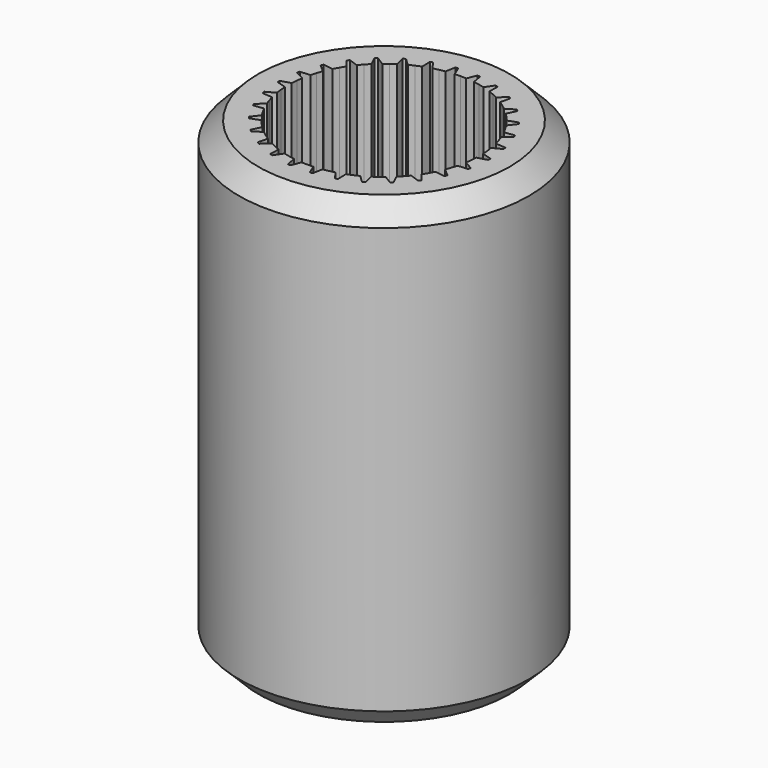
from build123d import *

# Parameters (mm, degrees)
F0_R     = 7.5
F1_DEPTH = 24
F2_SIZE  = 1


with BuildPart() as f1:
    # F0 (on Top) → F1 (new body)
    with BuildSketch(Plane.XY):
        Circle(F0_R)
        with BuildLine():
            ThreePointArc((5.449550226, 0.0700166693), (5.4498875553, 0.0350090569), (5.45, 0))
            ThreePointArc((5.45, 0), (5.4498875553, -0.0350090569), (5.449550226, -0.0700166693))
            ThreePointArc((5.449550226, -0.0700166693), (5.4201443298, -0.5696801248), (5.3450217628, -1.0645385646))
            ThreePointArc((5.3450217628, -1.0645385646), (5.330904424, -1.133118715), (5.3159071946, -1.2015118387))
            ThreePointArc((5.3159071946, -1.2015118387), (5.1832580138, -1.6841426193), (5.0068902002, -2.152568355))
            ThreePointArc((5.0068902002, -2.152568355), (4.9788227442, -2.2167147048), (4.9499335102, -2.2804951754))
            ThreePointArc((4.9499335102, -2.2804951754), (4.7198384506, -2.725), (4.4499335102, -3.1465205792))
            ThreePointArc((4.4499335102, -3.1465205792), (4.4091426193, -3.203429625), (4.3676239789, -3.2598099298))
            ThreePointArc((4.3676239789, -3.2598099298), (4.0501392989, -3.6467618047), (3.6984933726, -4.0029547553))
            ThreePointArc((3.6984933726, -4.0029547553), (3.6467618047, -4.0501392989), (3.5944283217, -4.096655348))
            ThreePointArc((3.5944283217, -4.096655348), (3.203429625, -4.4091426193), (2.7854113273, -4.6844406003))
            ThreePointArc((2.7854113273, -4.6844406003), (2.725, -4.7198384506), (2.6641388987, -4.7544572696))
            ThreePointArc((2.6641388987, -4.7544572696), (2.2167147048, -4.9788227442), (1.7505934411, -5.1611939127))
            ThreePointArc((1.7505934411, -5.1611939127), (1.6841426193, -5.1832580138), (1.617413822, -5.204466594))
            ThreePointArc((1.617413822, -5.204466594), (1.133118715, -5.330904424), (0.6392662213, -5.4123782849))
            ThreePointArc((0.6392662213, -5.4123782849), (0.5696801248, -5.4201443298), (0.5, -5.4270157545))
            ThreePointArc((0.5, -5.4270157545), (0, -5.45), (-0.5, -5.4270157545))
            ThreePointArc((-0.5, -5.4270157545), (-0.5696801248, -5.4201443298), (-0.6392662213, -5.4123782849))
            ThreePointArc((-0.6392662213, -5.4123782849), (-1.133118715, -5.330904424), (-1.617413822, -5.204466594))
            ThreePointArc((-1.617413822, -5.204466594), (-1.6841426193, -5.1832580138), (-1.7505934411, -5.1611939127))
            ThreePointArc((-1.7505934411, -5.1611939127), (-2.2167147048, -4.9788227442), (-2.6641388987, -4.7544572696))
            ThreePointArc((-2.6641388987, -4.7544572696), (-2.725, -4.7198384506), (-2.7854113273, -4.6844406003))
            ThreePointArc((-2.7854113273, -4.6844406003), (-3.203429625, -4.4091426193), (-3.5944283217, -4.096655348))
            ThreePointArc((-3.5944283217, -4.096655348), (-3.6467618047, -4.0501392989), (-3.6984933726, -4.0029547553))
            ThreePointArc((-3.6984933726, -4.0029547553), (-4.0501392989, -3.6467618047), (-4.3676239789, -3.2598099298))
            ThreePointArc((-4.3676239789, -3.2598099298), (-4.4091426193, -3.203429625), (-4.4499335102, -3.1465205792))
            ThreePointArc((-4.4499335102, -3.1465205792), (-4.7198384506, -2.725), (-4.9499335102, -2.2804951754))
            ThreePointArc((-4.9499335102, -2.2804951754), (-4.9788227442, -2.2167147048), (-5.0068902002, -2.152568355))
            ThreePointArc((-5.0068902002, -2.152568355), (-5.1832580138, -1.6841426193), (-5.3159071946, -1.2015118387))
            ThreePointArc((-5.3159071946, -1.2015118387), (-5.330904424, -1.133118715), (-5.3450217628, -1.0645385646))
            ThreePointArc((-5.3450217628, -1.0645385646), (-5.4201443298, -0.5696801248), (-5.449550226, -0.0700166693))
            ThreePointArc((-5.449550226, -0.0700166693), (-5.45, 0), (-5.449550226, 0.0700166693))
            ThreePointArc((-5.449550226, 0.0700166693), (-5.4201443298, 0.5696801248), (-5.3450217628, 1.0645385646))
            ThreePointArc((-5.3450217628, 1.0645385646), (-5.330904424, 1.133118715), (-5.3159071946, 1.2015118387))
            ThreePointArc((-5.3159071946, 1.2015118387), (-5.1832580138, 1.6841426193), (-5.0068902002, 2.152568355))
            ThreePointArc((-5.0068902002, 2.152568355), (-4.9788227442, 2.2167147048), (-4.9499335102, 2.2804951754))
            ThreePointArc((-4.9499335102, 2.2804951754), (-4.7198384506, 2.725), (-4.4499335102, 3.1465205792))
            ThreePointArc((-4.4499335102, 3.1465205792), (-4.4091426193, 3.203429625), (-4.3676239789, 3.2598099298))
            ThreePointArc((-4.3676239789, 3.2598099298), (-4.0501392989, 3.6467618047), (-3.6984933726, 4.0029547553))
            ThreePointArc((-3.6984933726, 4.0029547553), (-3.6467618047, 4.0501392989), (-3.5944283217, 4.096655348))
            ThreePointArc((-3.5944283217, 4.096655348), (-3.203429625, 4.4091426193), (-2.7854113273, 4.6844406003))
            ThreePointArc((-2.7854113273, 4.6844406003), (-2.725, 4.7198384506), (-2.6641388987, 4.7544572696))
            ThreePointArc((-2.6641388987, 4.7544572696), (-2.2167147048, 4.9788227442), (-1.7505934411, 5.1611939127))
            ThreePointArc((-1.7505934411, 5.1611939127), (-1.6841426193, 5.1832580138), (-1.617413822, 5.204466594))
            ThreePointArc((-1.617413822, 5.204466594), (-1.133118715, 5.330904424), (-0.6392662213, 5.4123782849))
            ThreePointArc((-0.6392662213, 5.4123782849), (-0.5696801248, 5.4201443298), (-0.5, 5.4270157545))
            ThreePointArc((-0.5, 5.4270157545), (0, 5.45), (0.5, 5.4270157545))
            ThreePointArc((0.5, 5.4270157545), (0.5696801248, 5.4201443298), (0.6392662213, 5.4123782849))
            ThreePointArc((0.6392662213, 5.4123782849), (1.133118715, 5.330904424), (1.617413822, 5.204466594))
            ThreePointArc((1.617413822, 5.204466594), (1.6841426193, 5.1832580138), (1.7505934411, 5.1611939127))
            ThreePointArc((1.7505934411, 5.1611939127), (2.2167147048, 4.9788227442), (2.6641388987, 4.7544572696))
            ThreePointArc((2.6641388987, 4.7544572696), (2.725, 4.7198384506), (2.7854113273, 4.6844406003))
            ThreePointArc((2.7854113273, 4.6844406003), (3.203429625, 4.4091426193), (3.5944283217, 4.096655348))
            ThreePointArc((3.5944283217, 4.096655348), (3.6467618047, 4.0501392989), (3.6984933726, 4.0029547553))
            ThreePointArc((3.6984933726, 4.0029547553), (4.0501392989, 3.6467618047), (4.3676239789, 3.2598099298))
            ThreePointArc((4.3676239789, 3.2598099298), (4.4091426193, 3.203429625), (4.4499335102, 3.1465205792))
            ThreePointArc((4.4499335102, 3.1465205792), (4.7198384506, 2.725), (4.9499335102, 2.2804951754))
            ThreePointArc((4.9499335102, 2.2804951754), (4.9788227442, 2.2167147048), (5.0068902002, 2.152568355))
            ThreePointArc((5.0068902002, 2.152568355), (5.1832580138, 1.6841426193), (5.3159071946, 1.2015118387))
            ThreePointArc((5.3159071946, 1.2015118387), (5.330904424, 1.133118715), (5.3450217628, 1.0645385646))
            ThreePointArc((5.3450217628, 1.0645385646), (5.4201443298, 0.5696801248), (5.449550226, 0.0700166693))
        make_face(mode=Mode.SUBTRACT)
        with BuildLine():
            Line((-3.471065627, 3.5290513475), (-3.6984933726, 4.0029547553))
            ThreePointArc((-3.6984933726, 4.0029547553), (-4.0501392989, 3.6467618047), (-4.3676239789, 3.2598099298))
            Line((-4.3676239789, 3.2598099298), (-3.8725439908, 3.0831644522))
            ThreePointArc((-3.8725439908, 3.0831644522), (-3.7772917267, 3.1991510141), (-3.6785668861, 3.3121965015))
            ThreePointArc((-3.6785668861, 3.3121965015), (-3.5764602296, 3.4221969882), (-3.471065627, 3.5290513475))
        make_face()
        with BuildLine():
            Line((-4.1289455477, 2.7302579849), (-4.4499335102, 3.1465205792))
            ThreePointArc((-4.4499335102, 3.1465205792), (-4.7198384506, 2.725), (-4.9499335102, 2.2804951754))
            Line((-4.9499335102, 2.2804951754), (-4.4289455477, 2.2106427427))
            ThreePointArc((-4.4289455477, 2.2106427427), (-4.3598897363, 2.3438987792), (-4.2868257487, 2.475))
            ThreePointArc((-4.2868257487, 2.475), (-4.2098207549, 2.6038258797), (-4.1289455477, 2.7302579849))
        make_face()
        with BuildLine():
            Line((-2.6614834824, 4.1736082318), (-2.7854113273, 4.6844406003))
            ThreePointArc((-2.7854113273, 4.6844406003), (-3.203429625, 4.4091426193), (-3.5944283217, 4.096655348))
            Line((-3.5944283217, 4.096655348), (-3.146893679, 3.8209370805))
            ThreePointArc((-3.146893679, 3.8209370805), (-3.0296079432, 3.9145849985), (-2.9095369988, 4.0046341222))
            ThreePointArc((-2.9095369988, 4.0046341222), (-2.7867912306, 4.0910016667), (-2.6614834824, 4.1736082318))
        make_face()
        with BuildLine():
            Line((-1.7355817384, 4.6357584093), (-1.7505934411, 5.1611939127))
            ThreePointArc((-1.7505934411, 5.1611939127), (-2.2167147048, 4.9788227442), (-2.6641388987, 4.7544572696))
            Line((-2.6641388987, 4.7544572696), (-2.283709013, 4.3917164234))
            ThreePointArc((-2.283709013, 4.3917164234), (-2.149515755, 4.4589328341), (-2.0133463832, 4.5220500153))
            ThreePointArc((-2.0133463832, 4.5220500153), (-1.8753260823, 4.5810099416), (-1.7355817384, 4.6357584093))
        make_face()
        with BuildLine():
            Line((-0.7338267442, 4.8953036994), (-0.6392662213, 5.4123782849))
            ThreePointArc((-0.6392662213, 5.4123782849), (-1.133118715, 5.330904424), (-1.617413822, 5.204466594))
            Line((-1.617413822, 5.204466594), (-1.3207153047, 4.7705566849))
            ThreePointArc((-1.3207153047, 4.7705566849), (-1.1754794137, 4.8084039086), (-1.0291628695, 4.8418306236))
            ThreePointArc((-1.0291628695, 4.8418306236), (-0.8819001854, 4.8708060999), (-0.7338267442, 4.8953036994))
        make_face()
        with BuildLine():
            Line((0.3, 4.9409007276), (0.5, 5.4270157545))
            ThreePointArc((0.5, 5.4270157545), (0, 5.45), (-0.5, 5.4270157545))
            Line((-0.5, 5.4270157545), (-0.3, 4.9409007276))
            ThreePointArc((-0.3, 4.9409007276), (-0.1500689814, 4.947724659), (0, 4.95))
            ThreePointArc((0, 4.95), (0.1500689814, 4.947724659), (0.3, 4.9409007276))
        make_face()
        with BuildLine():
            Line((1.3207153047, 4.7705566849), (1.617413822, 5.204466594))
            ThreePointArc((1.617413822, 5.204466594), (1.133118715, 5.330904424), (0.6392662213, 5.4123782849))
            Line((0.6392662213, 5.4123782849), (0.7338267442, 4.8953036994))
            ThreePointArc((0.7338267442, 4.8953036994), (0.8819001854, 4.8708060999), (1.0291628695, 4.8418306236))
            ThreePointArc((1.0291628695, 4.8418306236), (1.1754794137, 4.8084039086), (1.3207153047, 4.7705566849))
        make_face()
        with BuildLine():
            Line((2.283709013, 4.3917164234), (2.6641388987, 4.7544572696))
            ThreePointArc((2.6641388987, 4.7544572696), (2.2167147048, 4.9788227442), (1.7505934411, 5.1611939127))
            Line((1.7505934411, 5.1611939127), (1.7355817384, 4.6357584093))
            ThreePointArc((1.7355817384, 4.6357584093), (1.8753260823, 4.5810099416), (2.0133463832, 4.5220500153))
            ThreePointArc((2.0133463832, 4.5220500153), (2.149515755, 4.4589328341), (2.283709013, 4.3917164234))
        make_face()
        with BuildLine():
            Line((3.146893679, 3.8209370805), (3.5944283217, 4.096655348))
            ThreePointArc((3.5944283217, 4.096655348), (3.203429625, 4.4091426193), (2.7854113273, 4.6844406003))
            Line((2.7854113273, 4.6844406003), (2.6614834824, 4.1736082318))
            ThreePointArc((2.6614834824, 4.1736082318), (2.7867912306, 4.0910016667), (2.9095369988, 4.0046341222))
            ThreePointArc((2.9095369988, 4.0046341222), (3.0296079432, 3.9145849985), (3.146893679, 3.8209370805))
        make_face()
        with BuildLine():
            Line((3.8725439908, 3.0831644522), (4.3676239789, 3.2598099298))
            ThreePointArc((4.3676239789, 3.2598099298), (4.0501392989, 3.6467618047), (3.6984933726, 4.0029547553))
            Line((3.6984933726, 4.0029547553), (3.471065627, 3.5290513475))
            ThreePointArc((3.471065627, 3.5290513475), (3.5764602296, 3.4221969882), (3.6785668861, 3.3121965015))
            ThreePointArc((3.6785668861, 3.3121965015), (3.7772917267, 3.1991510141), (3.8725439908, 3.0831644522))
        make_face()
        with BuildLine():
            Line((4.4289455477, 2.2106427427), (4.9499335102, 2.2804951754))
            ThreePointArc((4.9499335102, 2.2804951754), (4.7198384506, 2.725), (4.4499335102, 3.1465205792))
            Line((4.4499335102, 3.1465205792), (4.1289455477, 2.7302579849))
            ThreePointArc((4.1289455477, 2.7302579849), (4.2098207549, 2.6038258797), (4.2868257487, 2.475))
            ThreePointArc((4.2868257487, 2.475), (4.3598897363, 2.3438987792), (4.4289455477, 2.2106427427))
        make_face()
        with BuildLine():
            Line((4.7917809317, 1.2415053375), (5.3159071946, 1.2015118387))
            ThreePointArc((5.3159071946, 1.2015118387), (5.1832580138, 1.6841426193), (5.0068902002, 2.152568355))
            Line((5.0068902002, 2.152568355), (4.606370735, 1.8121392472))
            ThreePointArc((4.606370735, 1.8121392472), (4.6591919121, 1.6716550858), (4.7077297557, 1.5296341222))
            ThreePointArc((4.7077297557, 1.5296341222), (4.7519396433, 1.3862069204), (4.7917809317, 1.2415053375))
        make_face()
        with BuildLine():
            Line((4.9451924954, 0.2181081916), (5.449550226, 0.0700166693))
            ThreePointArc((5.449550226, 0.0700166693), (5.4201443298, 0.5696801248), (5.3450217628, 1.0645385646))
            Line((5.3450217628, 1.0645385646), (4.8824754175, 0.8148213288))
            ThreePointArc((4.8824754175, 0.8148213288), (4.9049340256, 0.6664249431), (4.9228833821, 0.5174158932))
            ThreePointArc((4.9228833821, 0.5174158932), (4.9363069856, 0.3679311674), (4.9451924954, 0.2181081916))
        make_face()
        with BuildLine():
            Line((-4.606370735, 1.8121392472), (-5.0068902002, 2.152568355))
            ThreePointArc((-5.0068902002, 2.152568355), (-5.1832580138, 1.6841426193), (-5.3159071946, 1.2015118387))
            Line((-5.3159071946, 1.2015118387), (-4.7917809317, 1.2415053375))
            ThreePointArc((-4.7917809317, 1.2415053375), (-4.7519396433, 1.3862069204), (-4.7077297557, 1.5296341222))
            ThreePointArc((-4.7077297557, 1.5296341222), (-4.6591919121, 1.6716550858), (-4.606370735, 1.8121392472))
        make_face()
        with BuildLine():
            Line((-4.8824754175, 0.8148213288), (-5.3450217628, 1.0645385646))
            ThreePointArc((-5.3450217628, 1.0645385646), (-5.4201443298, 0.5696801248), (-5.449550226, 0.0700166693))
            Line((-5.449550226, 0.0700166693), (-4.9451924954, 0.2181081916))
            ThreePointArc((-4.9451924954, 0.2181081916), (-4.9363069856, 0.3679311674), (-4.9228833821, 0.5174158932))
            ThreePointArc((-4.9228833821, 0.5174158932), (-4.9049340256, 0.6664249431), (-4.8824754175, 0.8148213288))
        make_face()
        with BuildLine():
            ThreePointArc((-5.449550226, -0.0700166693), (-5.4201443298, -0.5696801248), (-5.3450217628, -1.0645385646))
            Line((-5.3450217628, -1.0645385646), (-4.8824754175, -0.8148213288))
            ThreePointArc((-4.8824754175, -0.8148213288), (-4.9049340256, -0.6664249431), (-4.9228833821, -0.5174158932))
            ThreePointArc((-4.9228833821, -0.5174158932), (-4.9363069856, -0.3679311674), (-4.9451924954, -0.2181081916))
            Line((-4.9451924954, -0.2181081916), (-5.449550226, -0.0700166693))
        make_face()
        with BuildLine():
            ThreePointArc((-5.3159071946, -1.2015118387), (-5.1832580138, -1.6841426193), (-5.0068902002, -2.152568355))
            Line((-5.0068902002, -2.152568355), (-4.606370735, -1.8121392472))
            ThreePointArc((-4.606370735, -1.8121392472), (-4.6591919121, -1.6716550858), (-4.7077297557, -1.5296341222))
            ThreePointArc((-4.7077297557, -1.5296341222), (-4.7519396433, -1.3862069204), (-4.7917809317, -1.2415053375))
            Line((-4.7917809317, -1.2415053375), (-5.3159071946, -1.2015118387))
        make_face()
        with BuildLine():
            ThreePointArc((-4.9499335102, -2.2804951754), (-4.7198384506, -2.725), (-4.4499335102, -3.1465205792))
            Line((-4.4499335102, -3.1465205792), (-4.1289455477, -2.7302579849))
            ThreePointArc((-4.1289455477, -2.7302579849), (-4.2098207549, -2.6038258797), (-4.2868257487, -2.475))
            ThreePointArc((-4.2868257487, -2.475), (-4.3598897363, -2.3438987792), (-4.4289455477, -2.2106427427))
            Line((-4.4289455477, -2.2106427427), (-4.9499335102, -2.2804951754))
        make_face()
        with BuildLine():
            ThreePointArc((-4.3676239789, -3.2598099298), (-4.0501392989, -3.6467618047), (-3.6984933726, -4.0029547553))
            Line((-3.6984933726, -4.0029547553), (-3.471065627, -3.5290513475))
            ThreePointArc((-3.471065627, -3.5290513475), (-3.5764602296, -3.4221969882), (-3.6785668861, -3.3121965015))
            ThreePointArc((-3.6785668861, -3.3121965015), (-3.7772917267, -3.1991510141), (-3.8725439908, -3.0831644522))
            Line((-3.8725439908, -3.0831644522), (-4.3676239789, -3.2598099298))
        make_face()
        with BuildLine():
            ThreePointArc((-3.5944283217, -4.096655348), (-3.203429625, -4.4091426193), (-2.7854113273, -4.6844406003))
            Line((-2.7854113273, -4.6844406003), (-2.6614834824, -4.1736082318))
            ThreePointArc((-2.6614834824, -4.1736082318), (-2.7867912306, -4.0910016667), (-2.9095369988, -4.0046341222))
            ThreePointArc((-2.9095369988, -4.0046341222), (-3.0296079432, -3.9145849985), (-3.146893679, -3.8209370805))
            Line((-3.146893679, -3.8209370805), (-3.5944283217, -4.096655348))
        make_face()
        with BuildLine():
            ThreePointArc((-2.6641388987, -4.7544572696), (-2.2167147048, -4.9788227442), (-1.7505934411, -5.1611939127))
            Line((-1.7505934411, -5.1611939127), (-1.7355817384, -4.6357584093))
            ThreePointArc((-1.7355817384, -4.6357584093), (-1.8753260823, -4.5810099416), (-2.0133463832, -4.5220500153))
            ThreePointArc((-2.0133463832, -4.5220500153), (-2.149515755, -4.4589328341), (-2.283709013, -4.3917164234))
            Line((-2.283709013, -4.3917164234), (-2.6641388987, -4.7544572696))
        make_face()
        with BuildLine():
            ThreePointArc((-1.617413822, -5.204466594), (-1.133118715, -5.330904424), (-0.6392662213, -5.4123782849))
            Line((-0.6392662213, -5.4123782849), (-0.7338267442, -4.8953036994))
            ThreePointArc((-0.7338267442, -4.8953036994), (-0.8819001854, -4.8708060999), (-1.0291628695, -4.8418306236))
            ThreePointArc((-1.0291628695, -4.8418306236), (-1.1754794137, -4.8084039086), (-1.3207153047, -4.7705566849))
            Line((-1.3207153047, -4.7705566849), (-1.617413822, -5.204466594))
        make_face()
        with BuildLine():
            ThreePointArc((-0.5, -5.4270157545), (0, -5.45), (0.5, -5.4270157545))
            Line((0.5, -5.4270157545), (0.3, -4.9409007276))
            ThreePointArc((0.3, -4.9409007276), (0.1500689814, -4.947724659), (0, -4.95))
            ThreePointArc((0, -4.95), (-0.1500689814, -4.947724659), (-0.3, -4.9409007276))
            Line((-0.3, -4.9409007276), (-0.5, -5.4270157545))
        make_face()
        with BuildLine():
            ThreePointArc((0.6392662213, -5.4123782849), (1.133118715, -5.330904424), (1.617413822, -5.204466594))
            Line((1.617413822, -5.204466594), (1.3207153047, -4.7705566849))
            ThreePointArc((1.3207153047, -4.7705566849), (1.1754794137, -4.8084039086), (1.0291628695, -4.8418306236))
            ThreePointArc((1.0291628695, -4.8418306236), (0.8819001854, -4.8708060999), (0.7338267442, -4.8953036994))
            Line((0.7338267442, -4.8953036994), (0.6392662213, -5.4123782849))
        make_face()
        with BuildLine():
            ThreePointArc((1.7505934411, -5.1611939127), (2.2167147048, -4.9788227442), (2.6641388987, -4.7544572696))
            Line((2.6641388987, -4.7544572696), (2.283709013, -4.3917164234))
            ThreePointArc((2.283709013, -4.3917164234), (2.149515755, -4.4589328341), (2.0133463832, -4.5220500153))
            ThreePointArc((2.0133463832, -4.5220500153), (1.8753260823, -4.5810099416), (1.7355817384, -4.6357584093))
            Line((1.7355817384, -4.6357584093), (1.7505934411, -5.1611939127))
        make_face()
        with BuildLine():
            ThreePointArc((2.7854113273, -4.6844406003), (3.203429625, -4.4091426193), (3.5944283217, -4.096655348))
            Line((3.5944283217, -4.096655348), (3.146893679, -3.8209370805))
            ThreePointArc((3.146893679, -3.8209370805), (3.0296079432, -3.9145849985), (2.9095369988, -4.0046341222))
            ThreePointArc((2.9095369988, -4.0046341222), (2.7867912306, -4.0910016667), (2.6614834824, -4.1736082318))
            Line((2.6614834824, -4.1736082318), (2.7854113273, -4.6844406003))
        make_face()
        with BuildLine():
            ThreePointArc((3.6984933726, -4.0029547553), (4.0501392989, -3.6467618047), (4.3676239789, -3.2598099298))
            Line((4.3676239789, -3.2598099298), (3.8725439908, -3.0831644522))
            ThreePointArc((3.8725439908, -3.0831644522), (3.7772917267, -3.1991510141), (3.6785668861, -3.3121965015))
            ThreePointArc((3.6785668861, -3.3121965015), (3.5764602296, -3.4221969882), (3.471065627, -3.5290513475))
            Line((3.471065627, -3.5290513475), (3.6984933726, -4.0029547553))
        make_face()
        with BuildLine():
            ThreePointArc((4.4499335102, -3.1465205792), (4.7198384506, -2.725), (4.9499335102, -2.2804951754))
            Line((4.9499335102, -2.2804951754), (4.4289455477, -2.2106427427))
            ThreePointArc((4.4289455477, -2.2106427427), (4.3598897363, -2.3438987792), (4.2868257487, -2.475))
            ThreePointArc((4.2868257487, -2.475), (4.2098207549, -2.6038258797), (4.1289455477, -2.7302579849))
            Line((4.1289455477, -2.7302579849), (4.4499335102, -3.1465205792))
        make_face()
        with BuildLine():
            ThreePointArc((5.0068902002, -2.152568355), (5.1832580138, -1.6841426193), (5.3159071946, -1.2015118387))
            Line((5.3159071946, -1.2015118387), (4.7917809317, -1.2415053375))
            ThreePointArc((4.7917809317, -1.2415053375), (4.7519396433, -1.3862069204), (4.7077297557, -1.5296341222))
            ThreePointArc((4.7077297557, -1.5296341222), (4.6591919121, -1.6716550858), (4.606370735, -1.8121392472))
            Line((4.606370735, -1.8121392472), (5.0068902002, -2.152568355))
        make_face()
        with BuildLine():
            ThreePointArc((5.3450217628, -1.0645385646), (5.4201443298, -0.5696801248), (5.449550226, -0.0700166693))
            Line((5.449550226, -0.0700166693), (4.9451924954, -0.2181081916))
            ThreePointArc((4.9451924954, -0.2181081916), (4.9363069856, -0.3679311674), (4.9228833821, -0.5174158932))
            ThreePointArc((4.9228833821, -0.5174158932), (4.9049340256, -0.6664249431), (4.8824754175, -0.8148213288))
            Line((4.8824754175, -0.8148213288), (5.3450217628, -1.0645385646))
        make_face()
    extrude(amount=F1_DEPTH)

    # F2
    f2_edges = [f1.edges().sort_by_distance(p)[0] for p in [
        (-7.5, 0, 0),
        (-7.5, 0, 24),
    ]]
    chamfer(f2_edges, length=F2_SIZE)


solid = f1.part
